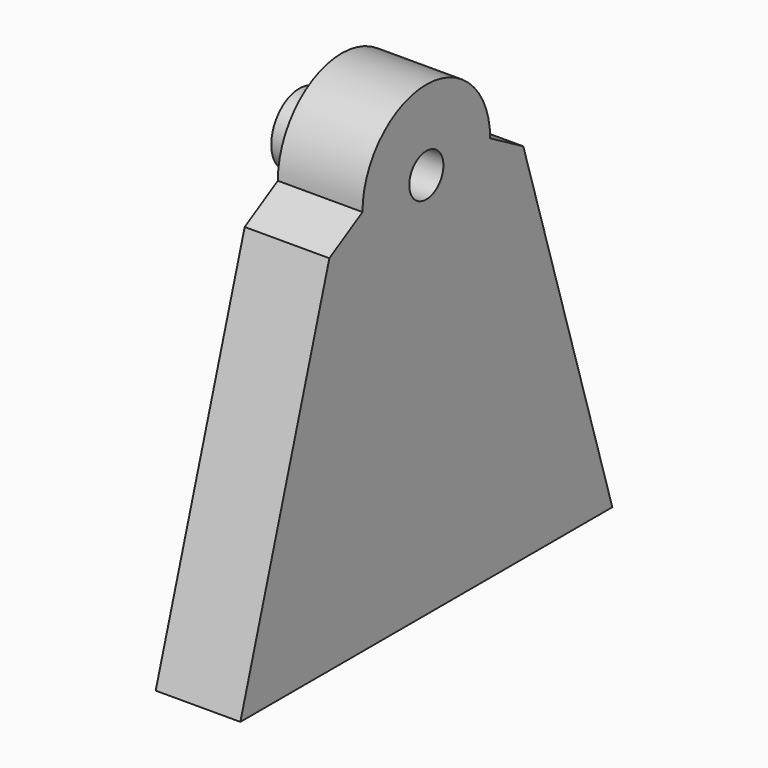
from build123d import *

# Parameters (mm, degrees)
F0_R     = 5
F1_DEPTH = 6.035
F2_R     = 11.377245
F3_DEPTH = 12.07
F5_DEPTH = 12.07
F6_R     = 3.045388
F7_DEPTH = 25


with BuildPart() as f1:
    # F0 (on Right) → F1 (new body)
    with BuildSketch(Plane.YZ):
        Circle(F0_R)
    extrude(amount=-F1_DEPTH)

    # F2 (on face) → F3 (join)
    with BuildSketch(Plane.YZ):
        Circle(F2_R)
    extrude(amount=F3_DEPTH)

    # F4 (on face) → F5 (join)
    with BuildSketch(Plane.YZ.offset(12.07)):
        with BuildLine():
            ThreePointArc((11.377245, 0), (0, -11.377245), (-11.377245, 0))
            Line((-11.377245, 0), (-17.279675, -3.399281))
            Line((-17.279675, -3.399281), (-33.142988, -55.143889))
            Line((-33.142988, -55.143889), (0, -55.143889))
            Line((0, -55.143889), (33.142988, -55.143889))
            Line((33.142988, -55.143889), (17.279675, -3.399281))
            Line((17.279675, -3.399281), (11.377245, 0))
        make_face()
    extrude(amount=-F5_DEPTH)

    # F6 (on face) → F7 (cut)
    with BuildSketch(Plane(origin=(-6.035, 0, 0), x_dir=(0, -1, 0), z_dir=(-1, 0, 0))):
        Circle(F6_R)
    extrude(amount=-F7_DEPTH, mode=Mode.SUBTRACT)


solid = f1.part
